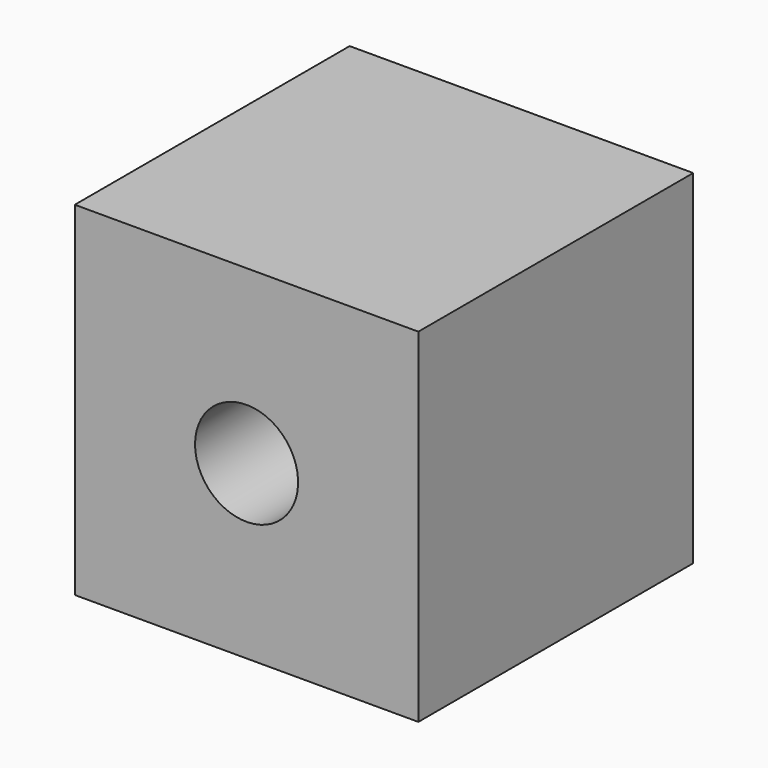
from build123d import *

# Parameters (mm, degrees)
F0_W     = 508
F0_H     = 508
F1_DEPTH = 508
F3_D     = 152.4
F4_T     = -2.54


with BuildPart() as f1:
    # F0 (on Top) → F1 (new body)
    with BuildSketch(Plane.XY):
        Rectangle(F0_W, F0_H)
    extrude(amount=F1_DEPTH)

    # F3 (through all)
    with Locations(Plane.XZ.offset(254)):
        with Locations((0, 254)):
            Hole(F3_D / 2)

    # F4 (hollow: no face is removed)
    offset(amount=F4_T, mode=Mode.SUBTRACT)


solid = f1.part
